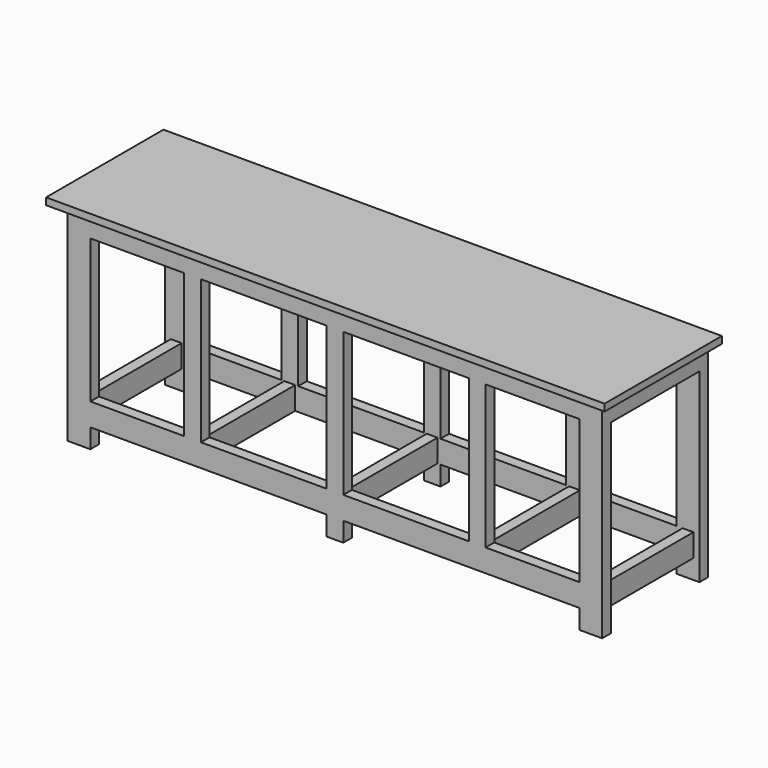
from build123d import *

# Parameters (mm, degrees)
F1_W     = 2334
F1_H     = 613
F2_DEPTH = 29
F4_DEPTH = 871
F3_W     = 45
F3_H     = 463
F3_W_2   = 392
F3_H_2   = 45
F3_W_3   = 525
F7_DEPTH = 95
F3_W_4   = 70
F8_DEPTH = 750
F6_W     = 2184
F6_H     = 553
F6_W_2   = 45
F6_H_2   = 463
F9_DEPTH = 95


with BuildPart() as f2:
    # F1 (on offset) → F2 (new body)
    with BuildSketch(Plane.XY.offset(900)):
        Rectangle(F1_W, F1_H)
    extrude(amount=-F2_DEPTH)

    # F3 (on face) → F4 (join)
    with BuildSketch(Plane(origin=(0, 0, 871), x_dir=(1, 0, 0), z_dir=(0, 0, -1))):
        Polygon((-1022, 256.5), (-1117, 256.5), (-1117, 211.5), (-1072, 211.5), (-1022, 211.5), align=None)
        Polygon((-1072, -251.5), (-1117, -251.5), (-1117, -296.5), (-1022, -296.5), (-1022, -251.5), align=None)
        Polygon((1117, -296.5), (1117, -251.5), (1072, -251.5), (1022, -251.5), (1022, -296.5), align=None)
        Polygon((1117, 256.5), (1022, 256.5), (1022, 211.5), (1072, 211.5), (1117, 211.5), align=None)
        Polygon((35, 256.5), (-35, 256.5), (-35, 211.5), (-22.5, 211.5), (22.5, 211.5), (35, 211.5), align=None)
        Polygon((22.5, -251.5), (-22.5, -251.5), (-35, -251.5), (-35, -296.5), (35, -296.5), (35, -251.5), align=None)
    extrude(amount=F4_DEPTH)

    # F3 (on face) → F7 (join)
    with BuildSketch(Plane(origin=(0, 0, 871), x_dir=(1, 0, 0), z_dir=(0, 0, -1))):
        with Locations((-1094.5, -20)):
            Rectangle(F3_W, F3_H)
        with Locations((-826, 234)):
            Rectangle(F3_W_2, F3_H_2)
        with Locations((-826, -274)):
            Rectangle(F3_W_2, F3_H_2)
        with Locations((-297.5, -274)):
            Rectangle(F3_W_3, F3_H_2)
        with Locations((-297.5, 234)):
            Rectangle(F3_W_3, F3_H_2)
        with Locations((297.5, 234)):
            Rectangle(F3_W_3, F3_H_2)
        with Locations((297.5, -274)):
            Rectangle(F3_W_3, F3_H_2)
        with Locations((826, -274)):
            Rectangle(F3_W_2, F3_H_2)
        with Locations((826, 234)):
            Rectangle(F3_W_2, F3_H_2)
        with Locations((1094.5, -20)):
            Rectangle(F3_W, F3_H)
    extrude(amount=F7_DEPTH)

    # F3 (on face) → F8 (join)
    with BuildSketch(Plane(origin=(0, 0, 871), x_dir=(1, 0, 0), z_dir=(0, 0, -1))):
        with Locations((-595, 234)):
            Rectangle(F3_W_4, F3_H_2)
        with Locations((-595, -274)):
            Rectangle(F3_W_4, F3_H_2)
        with Locations((595, -274)):
            Rectangle(F3_W_4, F3_H_2)
        with Locations((595, 234)):
            Rectangle(F3_W_4, F3_H_2)
    extrude(amount=F8_DEPTH)

    # F6 (on offset) → F9 (join)
    with BuildSketch(Plane.XY.offset(176)):
        with Locations((0, 20)):
            Rectangle(F6_W, F6_H)
        Polygon((-617.5, -211.5), (-1047, -211.5), (-1047, 251.5), (-617.5, 251.5), (-572.5, 251.5), (-22.5, 251.5), (22.5, 251.5), (572.5, 251.5), (617.5, 251.5), (1047, 251.5), (1047, -211.5), (617.5, -211.5), (572.5, -211.5), (22.5, -211.5), (-22.5, -211.5), (-572.5, -211.5), align=None, mode=Mode.SUBTRACT)
        with Locations((-595, 20)):
            Rectangle(F6_W_2, F6_H_2)
        with Locations((0, 20)):
            Rectangle(F6_W_2, F6_H_2)
        with Locations((595, 20)):
            Rectangle(F6_W_2, F6_H_2)
    extrude(amount=-F9_DEPTH)


solid = f2.part
